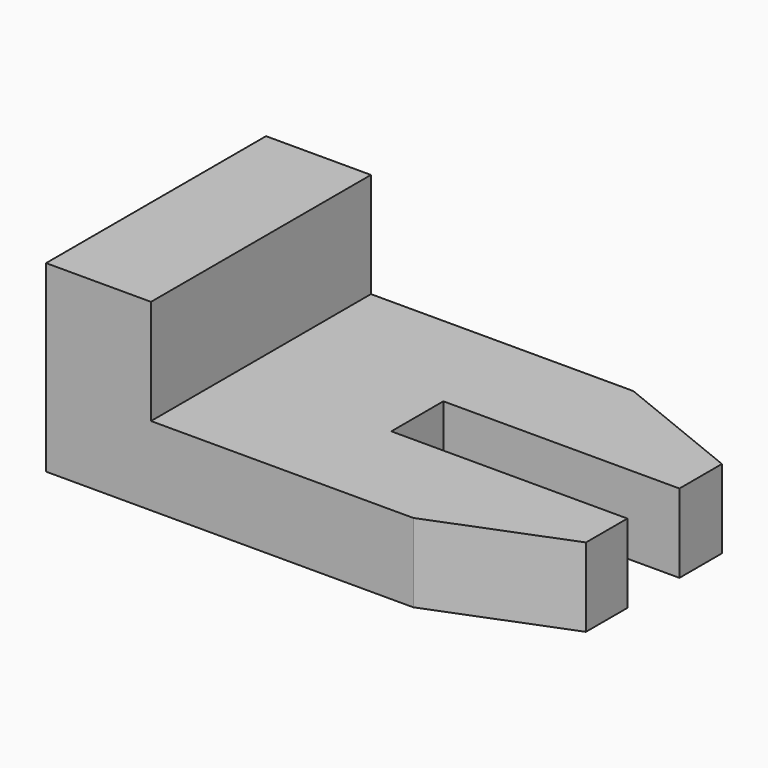
from build123d import *

# Parameters (mm, degrees)
F1_DEPTH = 66.548
F2_W     = 57.15
F2_H     = 8.186824
F2_H_2   = 7.561176
F3_DEPTH = 19.051
F5_DEPTH = 19.051


with BuildPart() as f1:
    # F0 (on Front) → F1 (new body)
    with BuildSketch(Plane.XZ):
        Polygon((0, 44.45), (0, 0), (120.65, 0), (120.65, 19.05), (25.4, 19.05), (25.4, 44.45), align=None)
    extrude(amount=-F1_DEPTH)

    # F2 (on face) → F3 (cut, through all)
    with BuildSketch(Plane.XY.offset(19.05)):
        with Locations((92.075, 29.180588)):
            Rectangle(F2_W, F2_H)
        with Locations((92.075, 37.054588)):
            Rectangle(F2_W, F2_H_2)
    extrude(amount=-F3_DEPTH, mode=Mode.SUBTRACT)

    # F4 (on face) → F5 (cut, through all)
    with BuildSketch(Plane.XY.offset(19.05)):
        Polygon((88.9, 0), (120.65, 0), (120.65, 12.543588), align=None)
        Polygon((120.65, 53.691588), (120.65, 66.548), (88.9, 66.548), align=None)
    extrude(amount=-F5_DEPTH, mode=Mode.SUBTRACT)


solid = f1.part
